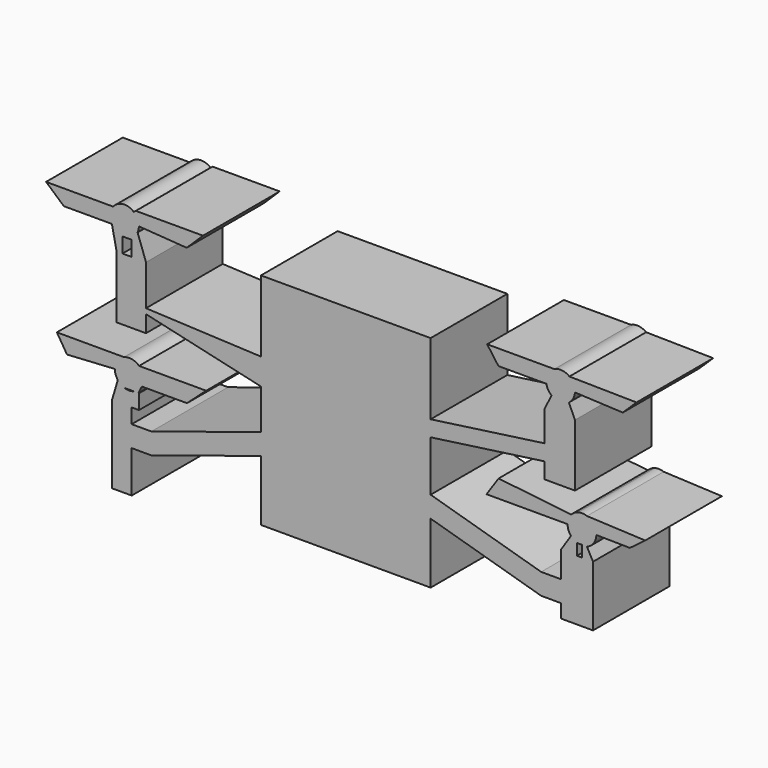
from build123d import *

# Parameters (mm, degrees)
F1_DEPTH = 25.4


with BuildPart() as f1:
    # F0 (on Front) → F1 (new body)
    with BuildSketch(Plane.XZ):
        Polygon((22.5474490715, 18.9312816523), (-22.4071055408, 18.9312816523), (-22.4071055408, 0), (-22.4071055408, -6.9696964332), (-22.4071055408, -17.594622799), (-22.4071055408, -23.1704941269), (-22.4071055408, -39.2656994748), (22.5474490715, -39.2656994748), (22.5474490715, -23.1704941269), (22.5474490715, -17.594622799), (22.5474490715, -4.2047654179), (22.5474490715, 0), align=None)
        Polygon((-22.4071055408, -6.9696964332), (-22.4071055408, 0), (-52.8559159213, 1.3785305276), (-52.8559159213, 12.0989607125), (-56.7535475108, 12.0989607125), (-59.089986937, 12.0989607125), (-60.6511791004, 12.0989607125), (-60.6511791004, 1.3785305276), (-60.6511791004, -4.4540729796), (-52.8559159213, -4.4540729796), (-52.8559159213, 0), align=None)
        Polygon((52.7360288291, 4.2047654179), (22.5474490715, 0), (22.5474490715, -4.2047654179), (52.7360288291, 0), (52.7360288291, -4.2047654179), (60.7895958687, -4.2047654179), (60.7895958687, 12.2697306797), (59.0926311994, 12.2697306797), (56.7628123489, 12.2697306797), (52.7360288291, 12.2697306797), align=None)
        Polygon((-22.4071055408, -23.1704941269), (-22.4071055408, -17.594622799), (-51.4301823175, -26.9054452341), (-56.6440403175, -26.9054452341), (-56.6440403175, -22.9819128912), (-58.5528229446, -22.9819128912), (-61.8640467567, -22.9819128912), (-61.8640467567, -43.5494654834), (-56.6440403175, -43.5494654834), (-56.6440403175, -32.481316562), (-51.4301823175, -32.481316562), align=None)
        with BuildLine():
            Line((-56.7535475108, 12.0989607125), (-52.8559159213, 12.0989607125))
            Line((-52.8559159213, 12.0989607125), (-55.078114397, 18.3186511549))
            ThreePointArc((-55.078114397, 18.3186511549), (-56.262887732, 16.8364566613), (-58.0156589521, 16.1095581661))
            Line((-58.0156589521, 16.1095581661), (-56.7535475108, 16.1095581661))
            Line((-56.7535475108, 16.1095581661), (-56.7535475108, 12.0989607125))
        make_face()
        Polygon((51.8240314995, -26.0747242923), (22.5474490715, -17.594622799), (22.5474490715, -23.1704941269), (51.8240314995, -31.6505956202), (57.037895267, -31.6505956202), (57.037895267, -35.2540606945), (65.5718660751, -35.2540606945), (65.5718660751, -19.2238938555), (62.6388617216, -19.2238938555), (61.3048806711, -19.2238938555), (57.037895267, -19.2238938555), (57.037895267, -26.0747242923), align=None)
        with BuildLine():
            Line((54.5799710571, 15.960324229), (52.7360288291, 12.2697306797))
            Line((52.7360288291, 12.2697306797), (56.7628123489, 12.2697306797))
            Line((56.7628123489, 12.2697306797), (59.0926311994, 12.2697306797))
            Line((59.0926311994, 12.2697306797), (60.7895958687, 12.2697306797))
            Line((60.7895958687, 12.2697306797), (59.1775793711, 15.8294018559))
            ThreePointArc((59.1775793711, 15.8294018559), (56.8567905245, 15.1228254655), (54.5799710571, 15.960324229))
        make_face()
        with BuildLine():
            Line((-54.7428394485, 19.8702869995), (-55.078114397, 18.3186511549))
            ThreePointArc((-55.078114397, 18.3186511549), (-54.8287689719, 19.0768137561), (-54.7428394485, 19.8702869995))
        make_face()
        with BuildLine():
            ThreePointArc((-58.0156589521, 16.1095581661), (-56.262887732, 16.8364566613), (-55.078114397, 18.3186511549))
            Line((-55.078114397, 18.3186511549), (-54.7428394485, 19.8702869995))
            ThreePointArc((-54.7428394485, 19.8702869995), (-54.7428270706, 19.8758941331), (-54.7428229446, 19.8815012788))
            ThreePointArc((-54.7428229446, 19.8815012788), (-55.0921436229, 21.4751758479), (-56.0760505732, 22.7766176184))
            Line((-56.0760505732, 22.7766176184), (-61.919152939, 18.0971463901))
            ThreePointArc((-61.919152939, 18.0971463901), (-61.8919764107, 18.0467930924), (-61.8640467567, 17.9968536019))
            ThreePointArc((-61.8640467567, 17.9968536019), (-60.6959499098, 16.7314049611), (-59.089986937, 16.1095581661))
            Line((-59.089986937, 16.1095581661), (-58.0156589521, 16.1095581661))
        make_face()
        with BuildLine():
            ThreePointArc((53.2161910443, 18.2525139833), (53.6909466204, 16.983180707), (54.5799710571, 15.960324229))
            ThreePointArc((54.5799710571, 15.960324229), (56.8567905245, 15.1228254655), (59.1775793711, 15.8294018559))
            ThreePointArc((59.1775793711, 15.8294018559), (60.2962294962, 17.0817912782), (60.7678109959, 18.6934575763))
            ThreePointArc((60.7678109959, 18.6934575763), (60.7733829341, 18.8123115995), (60.7752408508, 18.9312816523))
            ThreePointArc((60.7752408508, 18.9312816523), (60.3902565943, 20.6002235797), (59.3131058603, 21.9318865742))
            ThreePointArc((59.3131058603, 21.9318865742), (57.3749391018, 22.7191896954), (55.3132558722, 22.3645083606))
            ThreePointArc((55.3132558722, 22.3645083606), (53.5711402885, 20.6622297662), (53.2161910443, 18.2525139833))
        make_face()
        with BuildLine():
            Line((-60.6511791004, 12.0989607125), (-59.089986937, 12.0989607125))
            Line((-59.089986937, 12.0989607125), (-59.089986937, 16.1095581661))
            ThreePointArc((-59.089986937, 16.1095581661), (-60.6959499098, 16.7314049611), (-61.8640467567, 17.9968536019))
            Line((-61.8640467567, 17.9968536019), (-60.6511791004, 12.0989607125))
        make_face()
        with BuildLine():
            ThreePointArc((-54.7428229446, 19.8815012788), (-54.7428270706, 19.8758941331), (-54.7428394485, 19.8702869995))
            Line((-54.7428394485, 19.8702869995), (-42.0741718651, 18.9787368555))
            Line((-42.0741718651, 18.9787368555), (-37.7587572973, 23.2069110257))
            Line((-37.7587572973, 23.2069110257), (-55.5387572973, 23.2069110257))
            Line((-55.5387572973, 23.2069110257), (-56.0760505732, 22.7766176184))
            ThreePointArc((-56.0760505732, 22.7766176184), (-55.0921436229, 21.4751758479), (-54.7428229446, 19.8815012788))
        make_face()
        with BuildLine():
            Line((40.5161910443, 18.2525139833), (53.2161910443, 18.2525139833))
            ThreePointArc((53.2161910443, 18.2525139833), (53.5711402885, 20.6622297662), (55.3132558722, 22.3645083606))
            Line((55.3132558722, 22.3645083606), (37.5332558722, 22.3645083606))
            Line((37.5332558722, 22.3645083606), (40.5161910443, 18.2525139833))
        make_face()
        Polygon((-54.8352957317, -19.0630764722), (-56.6440403175, -22.9819128912), (-54.6986439291, -22.9819128912), (-54.6986439291, -19.0630764722), align=None)
        with BuildLine():
            Line((-58.5528229446, -22.9819128912), (-56.6440403175, -22.9819128912))
            Line((-56.6440403175, -22.9819128912), (-54.8352957317, -19.0630764722))
            Line((-54.8352957317, -19.0630764722), (-56.0289748879, -19.0630764722))
            ThreePointArc((-56.0289748879, -19.0630764722), (-57.2908989162, -19.2781289417), (-58.5528229446, -19.0630764722))
            Line((-58.5528229446, -19.0630764722), (-58.5528229446, -22.9819128912))
        make_face()
        with BuildLine():
            Line((59.7251296844, -15.1193431804), (57.037895267, -19.2238938555))
            Line((57.037895267, -19.2238938555), (61.3048806711, -19.2238938555))
            Line((61.3048806711, -19.2238938555), (61.3048806711, -16.2333344292))
            ThreePointArc((61.3048806711, -16.2333344292), (60.4431817029, -15.7781916743), (59.7251296844, -15.1193431804))
        make_face()
        with BuildLine():
            ThreePointArc((60.7752408508, 18.9312816523), (60.7733829341, 18.8123115995), (60.7678109959, 18.6934575763))
            Line((60.7678109959, 18.6934575763), (73.4548153211, 18.1190698564))
            Line((73.4548153211, 18.1190698564), (77.0911238889, 21.6664153429))
            Line((77.0911238889, 21.6664153429), (59.3131058603, 21.9318865742))
            ThreePointArc((59.3131058603, 21.9318865742), (60.3902565943, 20.6002235797), (60.7752408508, 18.9312816523))
        make_face()
        with BuildLine():
            Line((-61.8640467567, -22.9819128912), (-58.5528229446, -22.9819128912))
            Line((-58.5528229446, -22.9819128912), (-58.5528229446, -19.0630764722))
            ThreePointArc((-58.5528229446, -19.0630764722), (-59.5321043266, -18.5492161376), (-60.3225544192, -17.7757608255))
            Line((-60.3225544192, -17.7757608255), (-61.8640467567, -22.9819128912))
        make_face()
        with BuildLine():
            Line((-56.0289748879, -19.0630764722), (-54.8352957317, -19.0630764722))
            Line((-54.8352957317, -19.0630764722), (-54.211621416, -17.7118201141))
            ThreePointArc((-54.211621416, -17.7118201141), (-55.0175795119, -18.5255983015), (-56.0289748879, -19.0630764722))
        make_face()
        with BuildLine():
            Line((-61.919152939, 18.0971463901), (-56.0760505732, 22.7766176184))
            ThreePointArc((-56.0760505732, 22.7766176184), (-58.9240512759, 23.6733727858), (-61.5440566002, 22.2412939005))
            ThreePointArc((-61.5440566002, 22.2412939005), (-62.3473115185, 20.2249491816), (-61.919152939, 18.0971463901))
        make_face()
        with BuildLine():
            ThreePointArc((58.8288617216, -12.6644978461), (59.0599359706, -13.9711693691), (59.7251296844, -15.1193431804))
            ThreePointArc((59.7251296844, -15.1193431804), (60.4431817029, -15.7781916743), (61.3048806711, -16.2333344292))
            Line((61.3048806711, -16.2333344292), (62.6388617216, -16.2333344292))
            Line((62.6388617216, -16.2333344292), (62.6388617216, -16.4744978461))
            ThreePointArc((62.6388617216, -16.4744978461), (63.3166642807, -16.413722258), (63.972842772, -16.2333344292))
            ThreePointArc((63.972842772, -16.2333344292), (65.7548069155, -14.8569817226), (66.4485282611, -12.7149047688))
            ThreePointArc((66.4485282611, -12.7149047688), (66.4487783555, -12.6897018589), (66.4488617216, -12.6644978461))
            ThreePointArc((66.4488617216, -12.6644978461), (65.7668954697, -10.4892955864), (63.9651321307, -9.0927886191))
            Line((63.9651321307, -9.0927886191), (61.6344029934, -8.9892886461))
            ThreePointArc((61.6344029934, -8.9892886461), (60.6402483125, -9.4207894065), (59.8078067825, -10.1147472834))
            ThreePointArc((59.8078067825, -10.1147472834), (59.0820078225, -11.2988879673), (58.8288617216, -12.6644978461))
        make_face()
        with BuildLine():
            ThreePointArc((-60.3225544192, -17.7757608255), (-59.5321043266, -18.5492161376), (-58.5528229446, -19.0630764722))
            Line((-58.5528229446, -19.0630764722), (-56.0289748879, -19.0630764722))
            ThreePointArc((-56.0289748879, -19.0630764722), (-55.0175795119, -18.5255983015), (-54.211621416, -17.7118201141))
            ThreePointArc((-54.211621416, -17.7118201141), (-54.0557588566, -17.4805823684), (-53.9172272287, -17.2385637315))
            ThreePointArc((-53.9172272287, -17.2385637315), (-53.5915889042, -16.3798336282), (-53.4808989162, -15.4681289417))
            ThreePointArc((-53.4808989162, -15.4681289417), (-53.7985793789, -13.9450385801), (-54.6986439291, -12.6759408961))
            ThreePointArc((-54.6986439291, -12.6759408961), (-56.5853171419, -11.7240330082), (-58.689052199, -11.9239411084))
            ThreePointArc((-58.689052199, -11.9239411084), (-60.4407452623, -13.3246345992), (-61.1008989162, -15.4681289417))
            ThreePointArc((-61.1008989162, -15.4681289417), (-60.9010725593, -16.6858096334), (-60.3225544192, -17.7757608255))
        make_face()
        with BuildLine():
            Line((-74.619152939, 18.0971463901), (-61.919152939, 18.0971463901))
            ThreePointArc((-61.919152939, 18.0971463901), (-62.3473115185, 20.2249491816), (-61.5440566002, 22.2412939005))
            Line((-61.5440566002, 22.2412939005), (-79.3240566002, 22.2412939005))
            Line((-79.3240566002, 22.2412939005), (-74.619152939, 18.0971463901))
        make_face()
        with BuildLine():
            Line((62.6388617216, -16.4744978461), (62.6388617216, -19.2238938555))
            Line((62.6388617216, -19.2238938555), (65.5718660751, -19.2238938555))
            Line((65.5718660751, -19.2238938555), (63.972842772, -16.2333344292))
            ThreePointArc((63.972842772, -16.2333344292), (63.3166642807, -16.413722258), (62.6388617216, -16.4744978461))
        make_face()
        with BuildLine():
            Line((37.3561628626, -12.6644978461), (58.8288617216, -12.6644978461))
            ThreePointArc((58.8288617216, -12.6644978461), (59.0820078225, -11.2988879673), (59.8078067825, -10.1147472834))
            Line((59.8078067825, -10.1147472834), (40.5480005181, -7.951349779))
            Line((40.5480005181, -7.951349779), (37.3561628626, -12.6644978461))
        make_face()
        with BuildLine():
            ThreePointArc((-53.4808989162, -15.4681289417), (-53.5915889042, -16.3798336282), (-53.9172272287, -17.2385637315))
            Line((-53.9172272287, -17.2385637315), (-41.9986439291, -17.2385637315))
            Line((-41.9986439291, -17.2385637315), (-36.9186439291, -12.6759408961))
            Line((-36.9186439291, -12.6759408961), (-54.6986439291, -12.6759408961))
            ThreePointArc((-54.6986439291, -12.6759408961), (-53.7985793789, -13.9450385801), (-53.4808989162, -15.4681289417))
        make_face()
        with BuildLine():
            Line((-73.7778736162, -16.2325322744), (-61.1008989162, -15.4681289417))
            ThreePointArc((-61.1008989162, -15.4681289417), (-60.4407452623, -13.3246345992), (-58.689052199, -11.9239411084))
            Line((-58.689052199, -11.9239411084), (-76.469052199, -11.9239411084))
            Line((-76.469052199, -11.9239411084), (-73.7778736162, -16.2325322744))
        make_face()
        with BuildLine():
            ThreePointArc((63.9651321307, -9.0927886191), (62.8078846508, -8.8582488724), (61.6344029934, -8.9892886461))
            Line((61.6344029934, -8.9892886461), (63.9651321307, -9.0927886191))
        make_face()
        with BuildLine():
            ThreePointArc((66.4488617216, -12.6644978461), (66.4487783555, -12.6897018589), (66.4485282611, -12.7149047688))
            Line((66.4485282611, -12.7149047688), (75.3377501865, -12.8325209217))
            Line((75.3377501865, -12.8325209217), (79.3968982037, -9.7780623159))
            Line((79.3968982037, -9.7780623159), (63.9651321307, -9.0927886191))
            ThreePointArc((63.9651321307, -9.0927886191), (65.7668954697, -10.4892955864), (66.4488617216, -12.6644978461))
        make_face()
    extrude(amount=F1_DEPTH)


solid = f1.part
